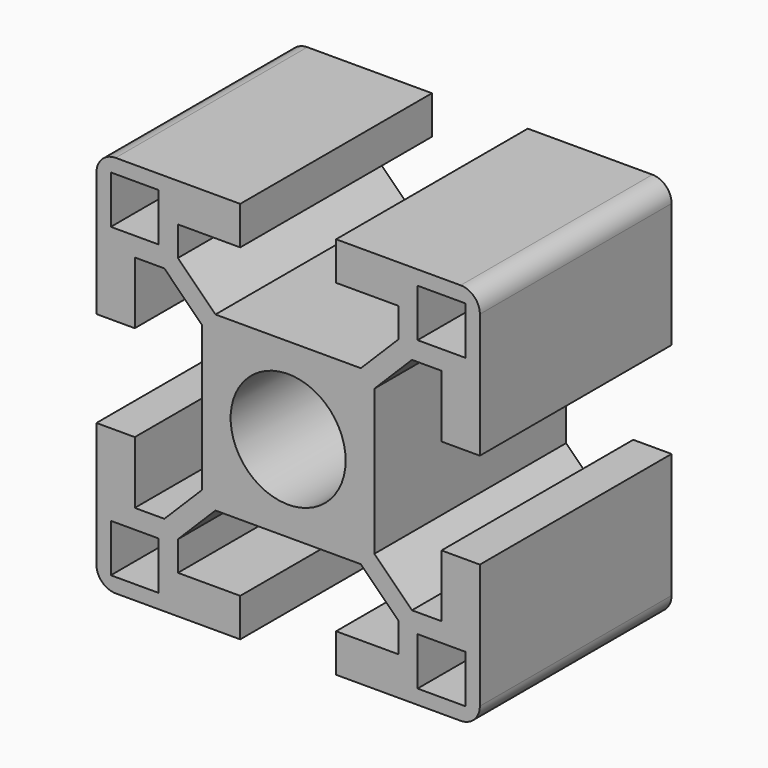
from build123d import *

# Parameters (mm, degrees)
F0_W     = 5
F0_H     = 5
F0_R     = 6
F1_DEPTH = 25


with BuildPart() as f1:
    # F0 (on Front) → F1 (new body)
    with BuildSketch(Plane.XZ):
        with BuildLine():
            Line((5, -20), (18, -20))
            ThreePointArc((18, -20), (19.414214, -19.414214), (20, -18))
            Line((20, -18), (20, -5))
            Line((20, -5), (16, -5))
            Line((16, -5), (16, -11.5))
            Line((16, -11.5), (12.914214, -11.5))
            Line((12.914214, -11.5), (9, -7.585786))
            Line((9, -7.585786), (9, 0))
            Line((9, 0), (9, 7.585786))
            Line((9, 7.585786), (12.914214, 11.5))
            Line((12.914214, 11.5), (16, 11.5))
            Line((16, 11.5), (16, 5))
            Line((16, 5), (20, 5))
            Line((20, 5), (20, 18))
            ThreePointArc((20, 18), (19.414214, 19.414214), (18, 20))
            Line((18, 20), (5, 20))
            Line((5, 20), (5, 16))
            Line((5, 16), (11.5, 16))
            Line((11.5, 16), (11.5, 12.914214))
            Line((11.5, 12.914214), (7.585786, 9))
            Line((7.585786, 9), (0, 9))
            Line((0, 9), (-7.585786, 9))
            Line((-7.585786, 9), (-11.5, 12.914214))
            Line((-11.5, 12.914214), (-11.5, 16))
            Line((-11.5, 16), (-5, 16))
            Line((-5, 16), (-5, 20))
            Line((-5, 20), (-18, 20))
            ThreePointArc((-18, 20), (-19.414214, 19.414214), (-20, 18))
            Line((-20, 18), (-20, 5))
            Line((-20, 5), (-16, 5))
            Line((-16, 5), (-16, 11.5))
            Line((-16, 11.5), (-12.914214, 11.5))
            Line((-12.914214, 11.5), (-9, 7.585786))
            Line((-9, 7.585786), (-9, 0))
            Line((-9, 0), (-9, -7.585786))
            Line((-9, -7.585786), (-12.914214, -11.5))
            Line((-12.914214, -11.5), (-16, -11.5))
            Line((-16, -11.5), (-16, -5))
            Line((-16, -5), (-20, -5))
            Line((-20, -5), (-20, -18))
            ThreePointArc((-20, -18), (-19.414214, -19.414214), (-18, -20))
            Line((-18, -20), (-5, -20))
            Line((-5, -20), (-5, -16))
            Line((-5, -16), (-11.5, -16))
            Line((-11.5, -16), (-11.5, -12.914214))
            Line((-11.5, -12.914214), (-7.585786, -9))
            Line((-7.585786, -9), (0, -9))
            Line((0, -9), (7.585786, -9))
            Line((7.585786, -9), (11.5, -12.914214))
            Line((11.5, -12.914214), (11.5, -16))
            Line((11.5, -16), (5, -16))
            Line((5, -16), (5, -20))
        make_face()
        with Locations((-16, -16)):
            Rectangle(F0_W, F0_H, mode=Mode.SUBTRACT)
        with Locations((16, -16)):
            Rectangle(F0_W, F0_H, mode=Mode.SUBTRACT)
        with Locations((-16, 16)):
            Rectangle(F0_W, F0_H, mode=Mode.SUBTRACT)
        Circle(F0_R, mode=Mode.SUBTRACT)
        with Locations((16, 16)):
            Rectangle(F0_W, F0_H, mode=Mode.SUBTRACT)
    extrude(amount=F1_DEPTH)


solid = f1.part
